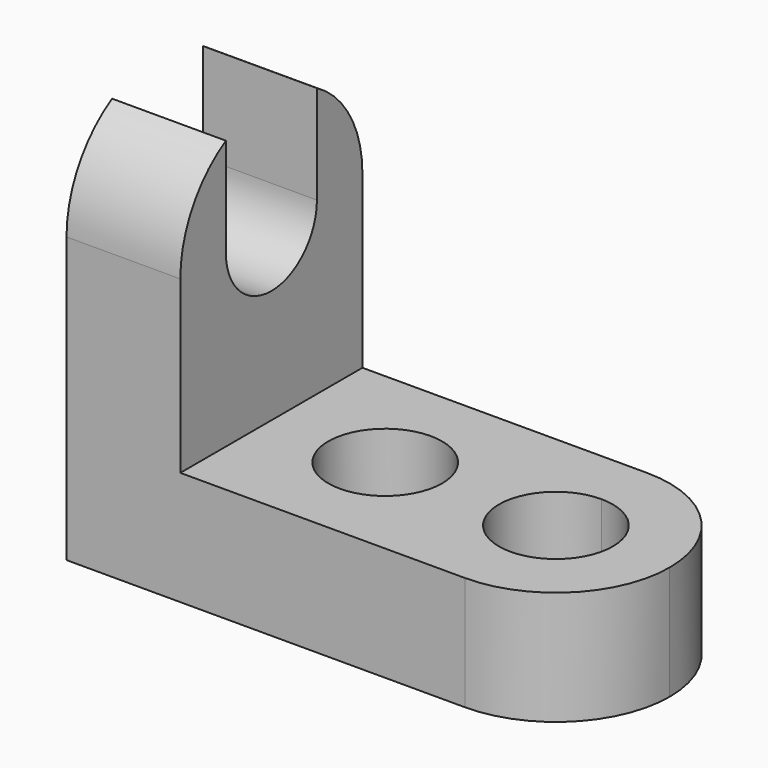
from build123d import *

# Parameters (mm, degrees)
F1_DEPTH = 25.4
F2_R     = 6.35
F3_DEPTH = 12.701
F5_DEPTH = 12.701


with BuildPart() as f1:
    # F0 (on Front) → F1 (new body)
    with BuildSketch(Plane.XZ):
        Polygon((-57.2872110233, 59.9430727009), (-69.9872110233, 59.9430727009), (-69.9872110233, 15.4930727009), (-12.8372110233, 15.4930727009), (-12.8372110233, 28.1930727009), (-57.2872110233, 28.1930727009), align=None)
    extrude(amount=F1_DEPTH)

    # F2 (on face) → F3 (cut, through all)
    with BuildSketch(Plane.XY.offset(28.1930727009)):
        with BuildLine():
            ThreePointArc((-12.8372110233, -12.7000000115), (-16.5569549063, -21.6802561251), (-25.5372110233, -25.4))
            Line((-25.5372110233, -25.4), (-12.8372110233, -25.4))
            Line((-12.8372110233, -25.4), (-12.8372110233, -12.7000000115))
        make_face()
        with BuildLine():
            Line((-12.8372110233, 0), (-25.5372110233, 0))
            ThreePointArc((-25.5372110233, 0), (-16.5569548981, -3.719743883), (-12.8372110233, -12.7000000115))
            Line((-12.8372110233, -12.7000000115), (-12.8372110233, 0))
        make_face()
        with BuildLine():
            ThreePointArc((-25.5372110233, -19.05), (-21.0470829627, -17.1901280605), (-19.1872110233, -12.7))
            ThreePointArc((-19.1872110233, -12.7), (-21.0470829627, -8.2098719395), (-25.5372110233, -6.35))
            ThreePointArc((-25.5372110233, -6.35), (-31.8872110233, -12.7), (-25.5372110233, -19.05))
        make_face()
        with Locations((-44.5872110233, -12.7)):
            Circle(F2_R)
    extrude(amount=-F3_DEPTH, mode=Mode.SUBTRACT)

    # F4 (on face) → F5 (cut, through all)
    with BuildSketch(Plane.YZ.offset(-57.2872110233)):
        with BuildLine():
            Line((-25.4, 59.9430727009), (-25.4, 47.2430727009))
            ThreePointArc((-25.4, 47.2430727009), (-23.6985226281, 53.5930727009), (-19.05, 58.2415953289))
            Line((-19.05, 58.2415953289), (-19.05, 59.9430727009))
            Line((-19.05, 59.9430727009), (-25.4, 59.9430727009))
        make_face()
        with BuildLine():
            ThreePointArc((-6.35, 58.2415953289), (-1.7014773719, 53.5930727009), (0, 47.2430727009))
            Line((0, 47.2430727009), (0, 59.9430727009))
            Line((0, 59.9430727009), (-6.35, 59.9430727009))
            Line((-6.35, 59.9430727009), (-6.35, 58.2415953289))
        make_face()
        with BuildLine():
            ThreePointArc((-12.7, 59.9430727009), (-9.4129981272, 59.5103306947), (-6.35, 58.2415953289))
            Line((-6.35, 58.2415953289), (-6.35, 59.9430727009))
            Line((-6.35, 59.9430727009), (-12.7, 59.9430727009))
        make_face()
        with BuildLine():
            Line((-19.05, 59.9430727009), (-19.05, 58.2415953289))
            ThreePointArc((-19.05, 58.2415953289), (-15.9870018728, 59.5103306947), (-12.7, 59.9430727009))
            Line((-12.7, 59.9430727009), (-19.05, 59.9430727009))
        make_face()
        with BuildLine():
            Line((-12.7, 47.2430727009), (-6.35, 47.2430727009))
            ThreePointArc((-6.35, 47.2430727009), (-12.7, 53.5930727009), (-19.05, 47.2430727009))
            Line((-19.05, 47.2430727009), (-12.7, 47.2430727009))
        make_face()
        with BuildLine():
            ThreePointArc((-19.05, 47.2430727009), (-12.7, 40.8930727009), (-6.35, 47.2430727009))
            Line((-6.35, 47.2430727009), (-12.7, 47.2430727009))
            Line((-12.7, 47.2430727009), (-19.05, 47.2430727009))
        make_face()
        with BuildLine():
            ThreePointArc((-19.05, 47.2430727009), (-12.7, 53.5930727009), (-6.35, 47.2430727009))
            Line((-6.35, 47.2430727009), (-6.35, 58.2415953289))
            ThreePointArc((-6.35, 58.2415953289), (-9.4129981272, 59.5103306947), (-12.7, 59.9430727009))
            ThreePointArc((-12.7, 59.9430727009), (-15.9870018728, 59.5103306947), (-19.05, 58.2415953289))
            Line((-19.05, 58.2415953289), (-19.05, 47.2430727009))
        make_face()
    extrude(amount=-F5_DEPTH, mode=Mode.SUBTRACT)


solid = f1.part
